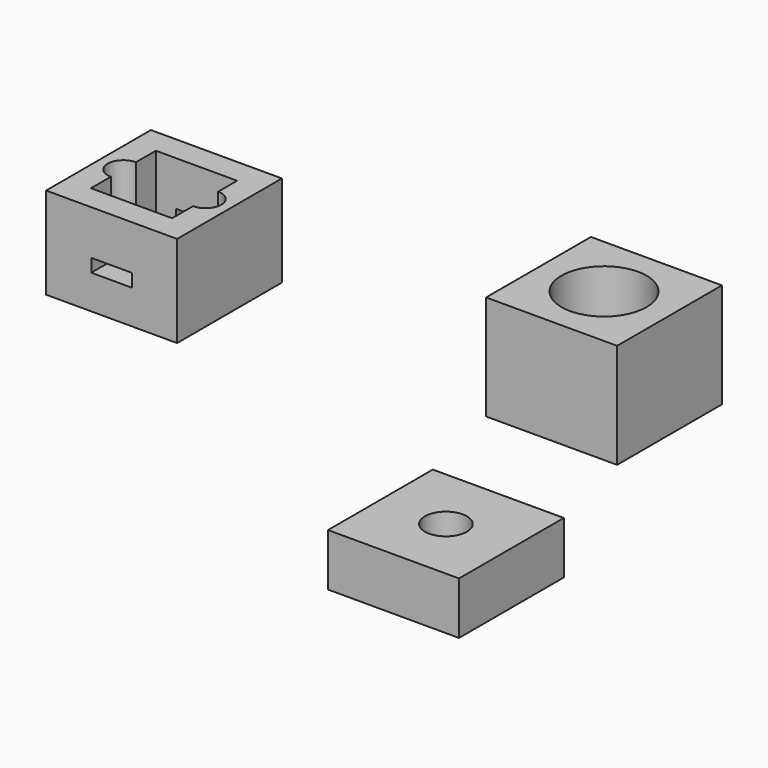
from build123d import *

# Parameters (mm, degrees)
F1_W     = 10
F1_H     = 10
F1_R     = 3.25
F3_DEPTH = 8
F0_W     = 10
F0_H     = 10
F4_DEPTH = 7
F5_W     = 3.1
F5_H     = 1
F6_DEPTH = 14.140019
F2_W     = 10
F2_H     = 10
F2_R     = 1.6
F7_DEPTH = 4


with BuildPart() as f3:
    # F1 (on Top) → F3 (new body)
    with BuildSketch(Plane.XY):
        with Locations((7.985733, 6.969889)):
            Rectangle(F1_W, F1_H)
        with Locations((7.985733, 6.969889)):
            Circle(F1_R, mode=Mode.SUBTRACT)
    extrude(amount=-F3_DEPTH)


with BuildPart() as f4:
    # F0 (on Top) → F4 (new body)
    with BuildSketch(Plane.XY):
        with Locations((-12.714077, -9.139019)):
            Rectangle(F0_W, F0_H)
        with BuildLine():
            Line((-15.814077, -7.939019), (-15.814077, -6.039019))
            Line((-15.814077, -6.039019), (-9.614077, -6.039019))
            Line((-9.614077, -6.039019), (-9.614077, -7.839019))
            ThreePointArc((-9.614077, -7.839019), (-8.414077, -9.039019), (-9.614077, -10.239019))
            Line((-9.614077, -10.239019), (-9.614077, -12.239019))
            Line((-9.614077, -12.239019), (-15.814077, -12.239019))
            Line((-15.814077, -12.239019), (-15.814077, -10.339019))
            ThreePointArc((-15.814077, -10.339019), (-17.014077, -9.139019), (-15.814077, -7.939019))
        make_face(mode=Mode.SUBTRACT)
    extrude(amount=F4_DEPTH)

    # F5 (on Front) → F6 (cut, through all)
    with BuildSketch(Plane.XZ):
        with Locations((-12.714077, 3.1)):
            Rectangle(F5_W, F5_H)
    extrude(amount=F6_DEPTH, mode=Mode.SUBTRACT)


with BuildPart() as f7:
    # F2 (on Top) → F7 (new body)
    with BuildSketch(Plane.XY):
        with Locations((24.183963, -28.36313)):
            Rectangle(F2_W, F2_H)
        with Locations((24.183963, -28.36313)):
            Circle(F2_R, mode=Mode.SUBTRACT)
    extrude(amount=F7_DEPTH)


solid = Compound([f3.part, f4.part, f7.part])
